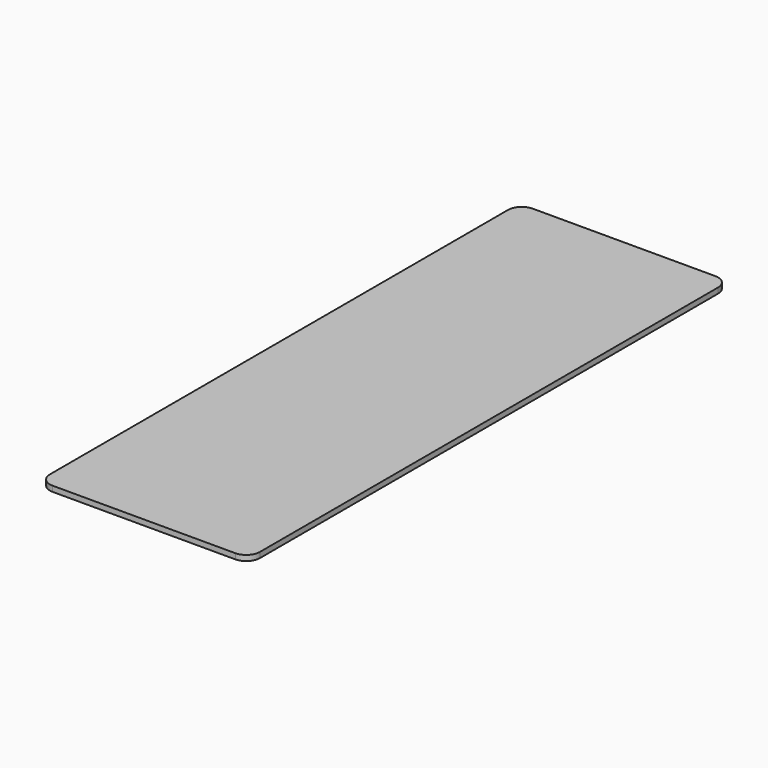
from build123d import *

# Parameters (mm, degrees)
SKETCH_W    = 77
SKETCH_H    = 220
PAD_DEPTH   = 2
FILLET_R    = 5
FILLET001_R = 5
FILLET002_R = 5
FILLET003_R = 5


with BuildPart() as part:
    # Sketch → Pad (new body)
    with BuildSketch(Plane.XY):
        with Locations((35.671573, 3.090588)):
            Rectangle(SKETCH_W, SKETCH_H)
    extrude(amount=PAD_DEPTH)

    # Fillet
    fillet_edges = [part.edges().sort_by_distance(p)[0] for p in [
        (74.171573, -106.909412, 1),
    ]]
    fillet(fillet_edges, radius=FILLET_R)

    # Fillet001
    fillet001_edges = [part.edges().sort_by_distance(p)[0] for p in [
        (-2.828427, -106.909412, 1),
    ]]
    fillet(fillet001_edges, radius=FILLET001_R)

    # Fillet002
    fillet002_edges = [part.edges().sort_by_distance(p)[0] for p in [
        (-2.828427, 113.090588, 1),
    ]]
    fillet(fillet002_edges, radius=FILLET002_R)

    # Fillet003
    fillet003_edges = [part.edges().sort_by_distance(p)[0] for p in [
        (74.171573, 113.090588, 1),
    ]]
    fillet(fillet003_edges, radius=FILLET003_R)


solid = part.part
